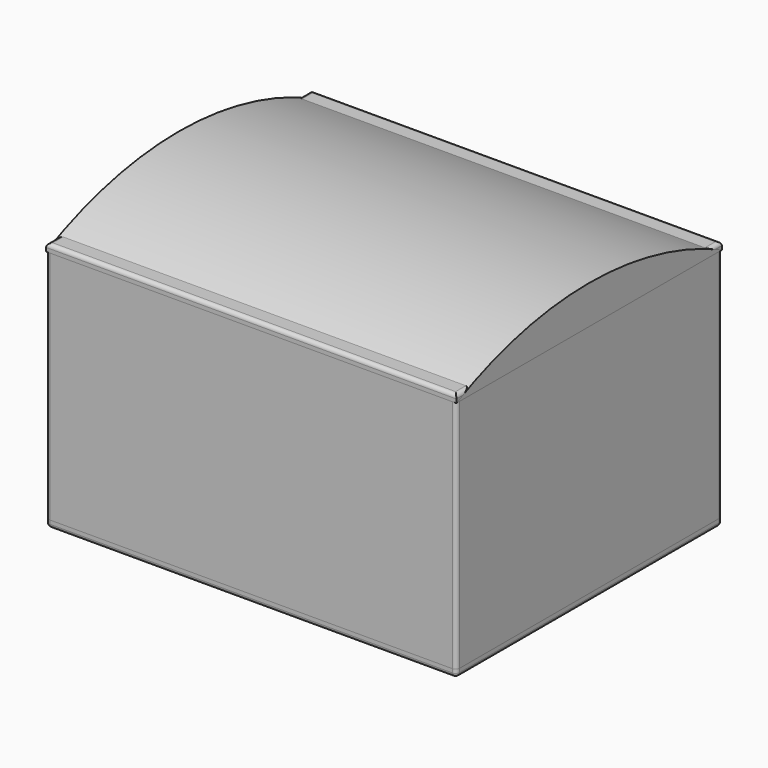
from build123d import *

# Parameters (mm, degrees)
F1_W      = 673.1
F1_H      = 539.75
F2_DEPTH  = 133.35
F3_W      = 127
F3_H      = 127
F4_DEPTH  = 129.54
F5_W      = 698.5
F5_H      = 565.15
F6_DEPTH  = 12.7
F7_W      = 698.5
F7_H      = 565.15
F7_W_2    = 673.1
F7_H_2    = 539.75
F8_DEPTH  = 400.05
F9_W      = 698.5
F9_H      = 565.15
F10_DEPTH = 12.7
F11_R     = 6.35
F11_2_R   = 6.35
F11_3_R   = 6.35
F13_DEPTH = 698.5
F14_T     = -3.175


with BuildPart() as f2:
    # F1 (on Top) → F2 (new body)
    with BuildSketch(Plane.XY):
        with Locations((336.55, -269.875)):
            Rectangle(F1_W, F1_H)
    extrude(amount=F2_DEPTH)

    # F3 (on face) → F4 (cut)
    with BuildSketch(Plane.XY.offset(133.35)):
        with Locations((69.85, -203.2)):
            Rectangle(F3_W, F3_H)
        with Locations((336.55, -203.2)):
            Rectangle(F3_W, F3_H)
        with Locations((603.25, -469.9)):
            Rectangle(F3_W, F3_H)
        with Locations((203.2, -336.55)):
            Rectangle(F3_W, F3_H)
        with Locations((69.85, -469.9)):
            Rectangle(F3_W, F3_H)
        with Locations((69.85, -336.55)):
            Rectangle(F3_W, F3_H)
        with Locations((336.55, -69.85)):
            Rectangle(F3_W, F3_H)
        with Locations((203.2, -69.85)):
            Rectangle(F3_W, F3_H)
        with Locations((603.25, -69.85)):
            Rectangle(F3_W, F3_H)
        with Locations((603.25, -203.2)):
            Rectangle(F3_W, F3_H)
        with Locations((469.9, -336.55)):
            Rectangle(F3_W, F3_H)
        with Locations((603.25, -336.55)):
            Rectangle(F3_W, F3_H)
        with Locations((469.9, -203.2)):
            Rectangle(F3_W, F3_H)
        with Locations((336.55, -336.55)):
            Rectangle(F3_W, F3_H)
        with Locations((203.2, -469.9)):
            Rectangle(F3_W, F3_H)
        with Locations((203.2, -203.2)):
            Rectangle(F3_W, F3_H)
        with Locations((69.85, -69.85)):
            Rectangle(F3_W, F3_H)
        with Locations((336.55, -469.9)):
            Rectangle(F3_W, F3_H)
        with Locations((469.9, -469.9)):
            Rectangle(F3_W, F3_H)
        with Locations((469.9, -69.85)):
            Rectangle(F3_W, F3_H)
    extrude(amount=-F4_DEPTH, mode=Mode.SUBTRACT)


with BuildPart() as f6:
    # F5 (on face) → F6 (new body)
    with BuildSketch(Plane(origin=(0, 0, 0), x_dir=(1, 0, 0), z_dir=(0, 0, -1))):
        with Locations((336.55, 269.875)):
            Rectangle(F5_W, F5_H)
    extrude(amount=F6_DEPTH)

    # F11
    f11_edges = [f6.edges().sort_by_distance(p)[0] for p in [
        (685.8, 12.7, -6.35),
        (336.55, 12.7, -12.7),
        (-12.7, 12.7, -6.35),
        (336.55, -552.45, -12.7),
        (-12.7, -269.875, -12.7),
        (685.8, -269.875, -12.7),
        (685.8, -552.45, -6.35),
        (-12.7, -552.45, -6.35),
    ]]
    fillet(f11_edges, radius=F11_R)


with BuildPart() as f8:
    # F7 (on face) → F8 (new body)
    with BuildSketch(Plane.XY):
        with Locations((336.55, -269.875)):
            Rectangle(F7_W, F7_H)
        with Locations((336.55, -269.875)):
            Rectangle(F7_W_2, F7_H_2, mode=Mode.SUBTRACT)
    extrude(amount=F8_DEPTH)

    # F11#2
    f11_2_edges = [f8.edges().sort_by_distance(p)[0] for p in [
        (685.8, 12.7, 200.025),
        (-12.7, 12.7, 200.025),
        (685.8, -552.45, 200.025),
        (-12.7, -552.45, 200.025),
    ]]
    fillet(f11_2_edges, radius=F11_2_R)


with BuildPart() as f10:
    # F9 (on face) → F10 (new body)
    with BuildSketch(Plane.XY.offset(400.05)):
        with Locations((336.55, -269.875)):
            Rectangle(F9_W, F9_H)
    extrude(amount=F10_DEPTH)

    # F11#3
    f11_3_edges = [f10.edges().sort_by_distance(p)[0] for p in [
        (336.55, 12.7, 412.75),
        (-12.7, -269.875, 412.75),
        (336.55, -552.45, 412.75),
        (685.8, -269.875, 412.75),
    ]]
    fillet(f11_3_edges, radius=F11_3_R)


with BuildPart() as f13:
    # F12 (on face) → F13 (new body, through all)
    with BuildSketch(Plane.YZ.offset(685.8)):
        with BuildLine():
            Line((-552.45, 400.05), (12.7, 400.05))
            ThreePointArc((12.7, 400.05), (-269.875, 465.4420942253), (-552.45, 400.05))
        make_face()
    extrude(amount=-F13_DEPTH)

    # F14
    f14_openings = [f13.faces().sort_by_distance(p)[0] for p in [
        (336.55, -269.875, 400.05),
    ]]
    offset(amount=F14_T, openings=f14_openings)


solid = Compound([f2.part, f6.part, f8.part, f10.part, f13.part])
